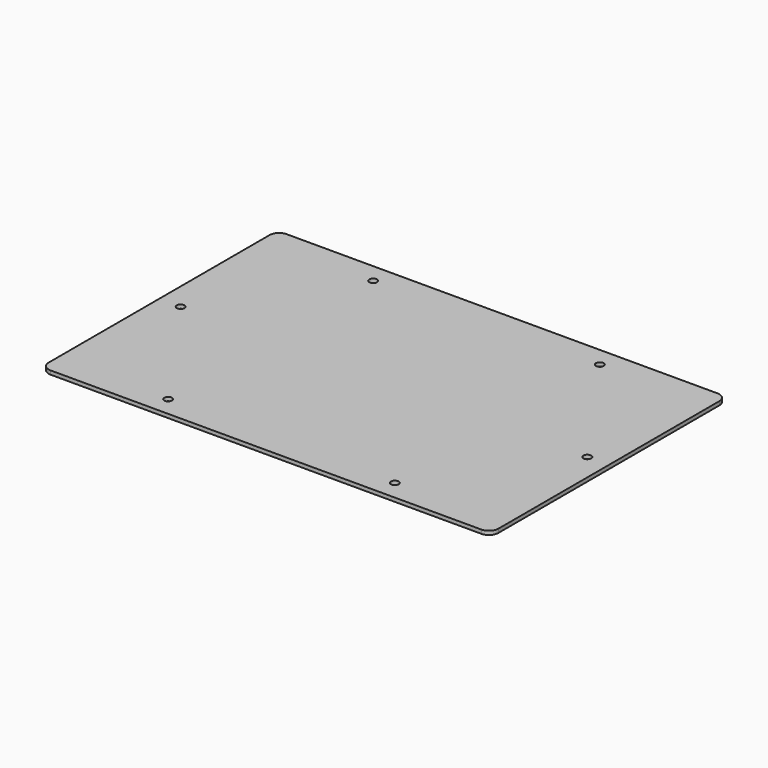
from build123d import *

# Parameters (mm, degrees)
F0_W     = 189
F0_H     = 124
F0_R     = 1.63195
F1_DEPTH = 1.5875
F2_R     = 4


with BuildPart() as f1:
    # F0 (on Top) → F1 (new body)
    with BuildSketch(Plane.XY):
        Rectangle(F0_W, F0_H)
        with Locations((-47.625, -53.848)):
            Circle(F0_R, mode=Mode.SUBTRACT)
        with Locations((47.625, -53.848)):
            Circle(F0_R, mode=Mode.SUBTRACT)
        with Locations((-85.471, 0)):
            Circle(F0_R, mode=Mode.SUBTRACT)
        with Locations((-47.625, 53.848)):
            Circle(F0_R, mode=Mode.SUBTRACT)
        with Locations((85.471, 0)):
            Circle(F0_R, mode=Mode.SUBTRACT)
        with Locations((47.625, 53.848)):
            Circle(F0_R, mode=Mode.SUBTRACT)
    extrude(amount=F1_DEPTH)

    # F2
    f2_edges = [f1.edges().sort_by_distance(p)[0] for p in [
        (-94.5, 62, 0.79375),
        (-94.5, -62, 0.79375),
        (94.5, 62, 0.79375),
        (94.5, -62, 0.79375),
    ]]
    fillet(f2_edges, radius=F2_R)


solid = f1.part
